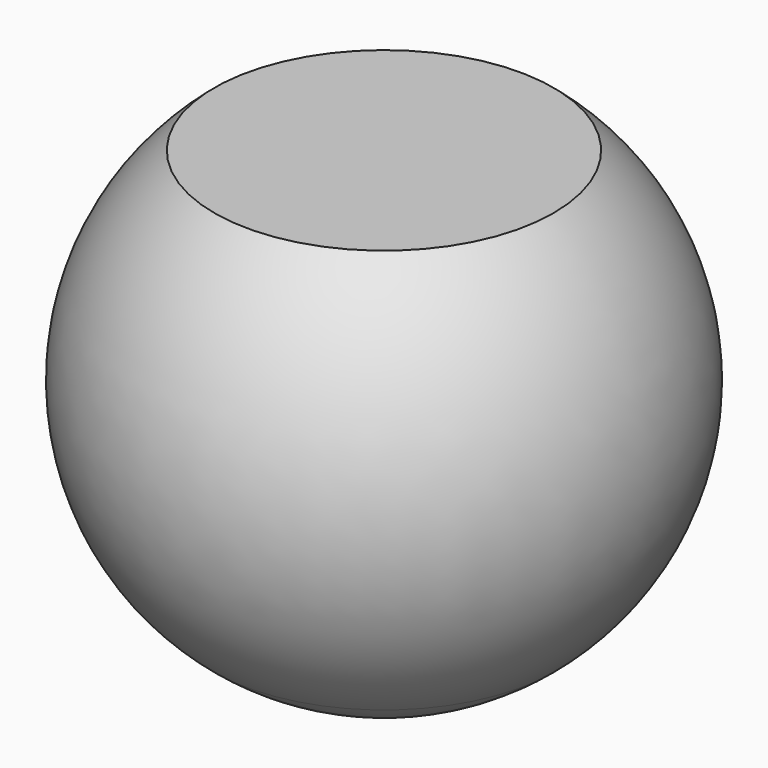
from build123d import *


with BuildPart() as f1:
    # F0 (on Front) → F1 (revolve)
    with BuildSketch(Plane.XZ):
        with BuildLine():
            Line((0, -58.372587), (48.980416, -58.372587))
            ThreePointArc((48.980416, -58.372587), (76.2, 0), (48.980416, 58.372587))
            Line((48.980416, 58.372587), (0, 58.372587))
            Line((0, 58.372587), (0, -58.372587))
        make_face()
    revolve(axis=Axis((0, 0, 0), (0, 0, -1)))


with BuildPart() as f2:
    # F0 (on Front) → F2 (revolve)
    with BuildSketch(Plane.XZ):
        with BuildLine():
            Line((0, -58.372587), (0, -76.2))
            ThreePointArc((0, -76.2), (26.061935, -71.604578), (48.980416, -58.372587))
            Line((48.980416, -58.372587), (0, -58.372587))
        make_face()
    revolve(axis=Axis((0, 0, 0), (0, 0, -1)))


solid = Compound([f1.part, f2.part])
